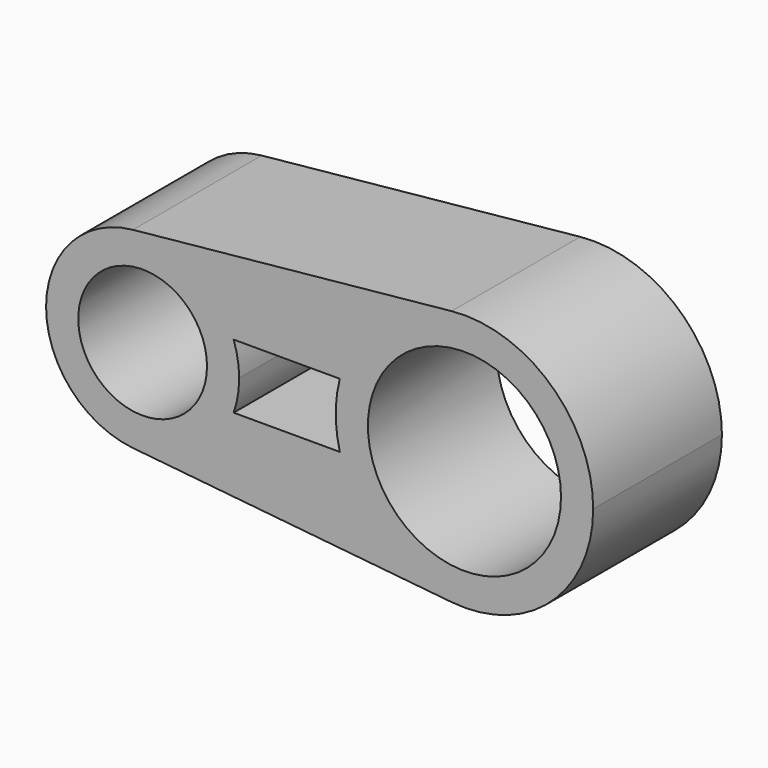
from build123d import *

# Parameters (mm, degrees)
F0_R     = 10
F0_R_2   = 15
F1_DEPTH = 25


with BuildPart() as f1:
    # F0 (on Front) → F1 (new body)
    with BuildSketch(Plane.XZ):
        with BuildLine():
            ThreePointArc((14.142136, -5), (14.783978, -2.53653), (15, 0))
            ThreePointArc((15, 0), (14.783978, 2.53653), (14.142136, 5))
            ThreePointArc((14.142136, 5), (8.036253, 12.665648), (-1.5, 14.924812))
            ThreePointArc((-1.5, 14.924812), (-15, 0), (-1.5, -14.924812))
            ThreePointArc((-1.5, -14.924812), (8.036253, -12.665648), (14.142136, -5))
        make_face()
        Circle(F0_R, mode=Mode.SUBTRACT)
        with BuildLine():
            ThreePointArc((-1.5, 14.924812), (8.036253, 12.665648), (14.142136, 5))
            Line((14.142136, 5), (30.635083, 5))
            ThreePointArc((30.635083, 5), (36.976347, 15.178421), (48, 19.899749))
            Line((48, 19.899749), (-1.5, 14.924812))
        make_face()
        with BuildLine():
            Line((30.635083, -5), (14.142136, -5))
            ThreePointArc((14.142136, -5), (8.036253, -12.665648), (-1.5, -14.924812))
            Line((-1.5, -14.924812), (48, -19.899749))
            ThreePointArc((48, -19.899749), (36.976347, -15.178421), (30.635083, -5))
        make_face()
        with BuildLine():
            ThreePointArc((48, 19.899749), (36.976347, 15.178421), (30.635083, 5))
            ThreePointArc((30.635083, 5), (30, 0), (30.635083, -5))
            ThreePointArc((30.635083, -5), (36.976347, -15.178421), (48, -19.899749))
            ThreePointArc((48, -19.899749), (63.416408, -14.832397), (70, 0))
            ThreePointArc((70, 0), (63.416408, 14.832397), (48, 19.899749))
        make_face()
        with Locations((50, 0)):
            Circle(F0_R_2, mode=Mode.SUBTRACT)
    extrude(amount=F1_DEPTH)


solid = f1.part
